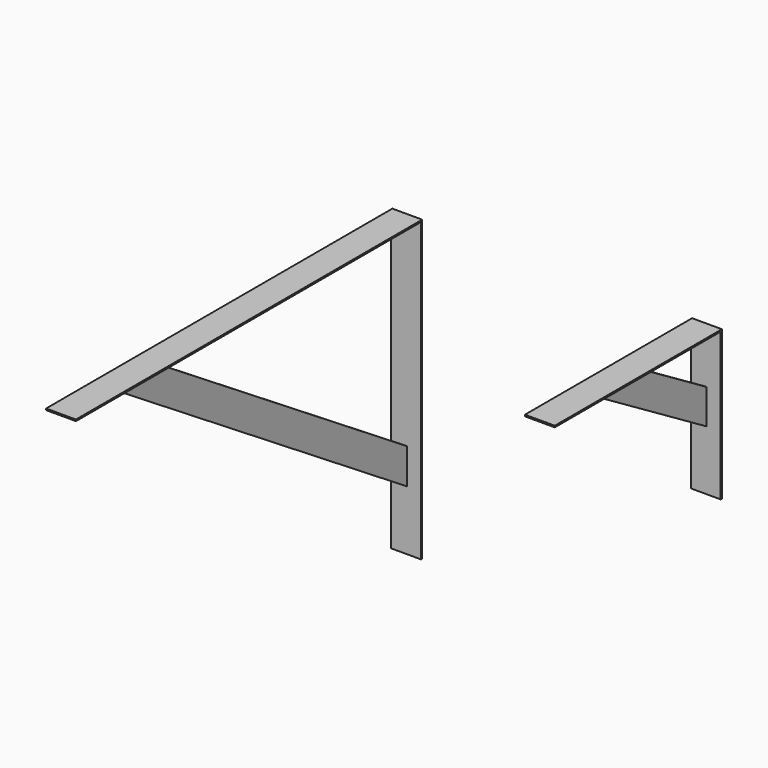
from build123d import *

# Parameters (mm, degrees)
F1_DEPTH = 12.7
F3_DEPTH = 0.635
F6_DEPTH = 12.7
F8_DEPTH = 0.635


with BuildPart() as f1:
    # F0 (on Right) → F1 (new body, symmetric)
    with BuildSketch(Plane.YZ):
        Polygon((0, 0), (-368.3, 0), (-368.3, -1.27), (-1.27, -1.27), (-1.27, -254), (0, -254), align=None)
    extrude(amount=F1_DEPTH, both=True)

    # F2 (on Right) → F3 (join, symmetric)
    with BuildSketch(Plane.YZ):
        Polygon((-1.27, -173.063229), (-270.30468, -1.27), (-317.5, -1.27), (-1.27, -203.2), align=None)
    extrude(amount=F3_DEPTH, both=True)


with BuildPart() as f6:
    # F5 (on offset) → F6 (new body, symmetric)
    with BuildSketch(Plane.YZ.offset(254)):
        Polygon((1.27, 0), (-176.53, 0), (-176.53, -1.27), (0, -1.27), (0, -127), (1.27, -127), align=None)
    extrude(amount=F6_DEPTH, both=True)

    # F7 (on offset) → F8 (join, symmetric)
    with BuildSketch(Plane.YZ.offset(254)):
        Polygon((0, -46.631434), (-76.114949, -1.27), (-125.73, -1.27), (0, -76.2), align=None)
    extrude(amount=F8_DEPTH, both=True)


solid = Compound([f1.part, f6.part])
